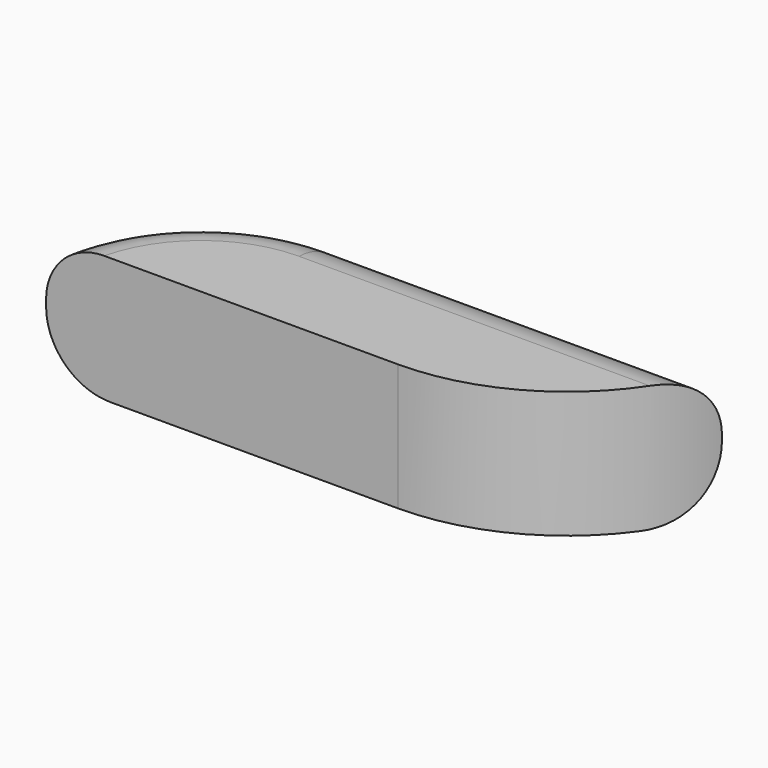
from build123d import *

# Parameters (mm, degrees)
F1_DEPTH = 50.8
F2_R     = 22.86
F3_R     = 25.4


with BuildPart() as f1:
    # F0 (on Top) → F1 (new body)
    with BuildSketch(Plane.XY):
        with BuildLine():
            ThreePointArc((13.428768, 121.414845), (-33.346659, 104.181794), (-57.761153, 60.720879))
            Line((-57.761153, 60.720879), (83.249649, 60.720879))
            ThreePointArc((83.249649, 60.720879), (133.949731, 77.570215), (164.479175, 121.414845))
            Line((164.479175, 121.414845), (13.428768, 121.414845))
        make_face()
    extrude(amount=F1_DEPTH)

    # F2
    f2_edges = [f1.edges().sort_by_distance(p)[0] for p in [
        (-33.346659, 104.181794, 50.8),
        (88.953971, 121.414845, 50.8),
    ]]
    fillet(f2_edges, radius=F2_R)

    # F3
    f3_edges = [f1.edges().sort_by_distance(p)[0] for p in [
        (88.953971, 121.414845, 0),
        (-33.346659, 104.181794, 0),
    ]]
    fillet(f3_edges, radius=F3_R)


solid = f1.part
